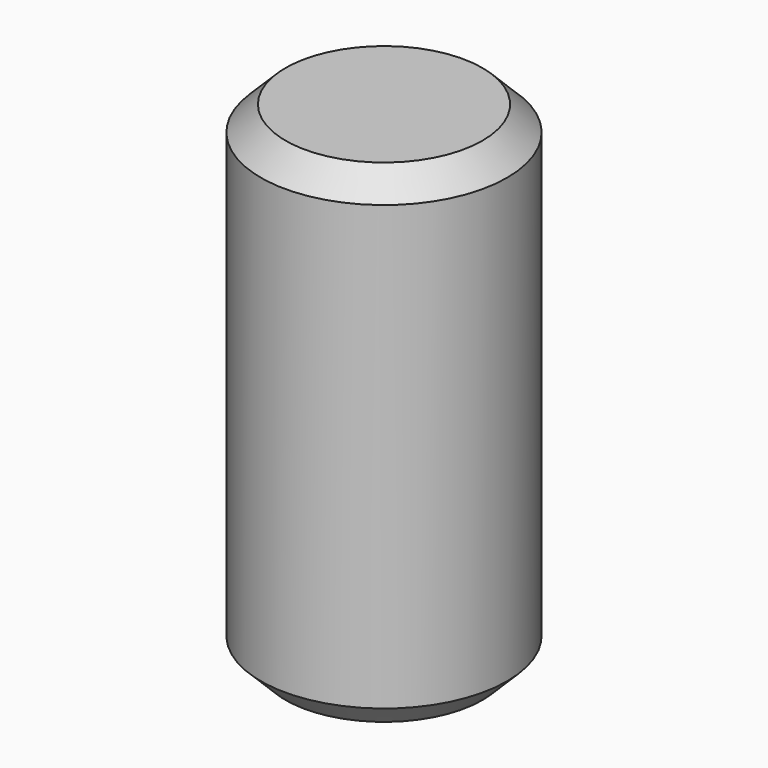
from build123d import *

# Parameters (mm, degrees)
F0_R     = 5
F1_DEPTH = 20
F2_SIZE  = 1
F3_SIZE  = 1


with BuildPart() as f1:
    # F0 (on Top) → F1 (new body)
    with BuildSketch(Plane.XY):
        Circle(F0_R)
    extrude(amount=-F1_DEPTH)

    # F2
    f2_edges = [f1.edges().sort_by_distance(p)[0] for p in [
        (-5, 0, -20),
    ]]
    chamfer(f2_edges, length=F2_SIZE)

    # F3
    f3_edges = [f1.edges().sort_by_distance(p)[0] for p in [
        (-5, 0, 0),
    ]]
    chamfer(f3_edges, length=F3_SIZE)


solid = f1.part
